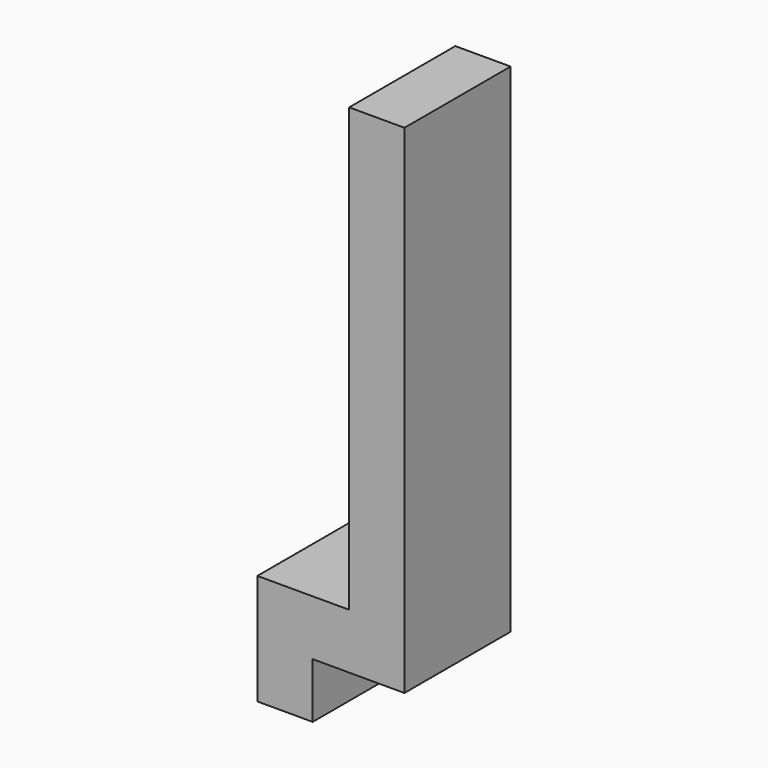
from build123d import *

# Parameters (mm, degrees)
F1_DEPTH = 12
F2_R     = 0.65
F3_DEPTH = 5
F4_R     = 2.35
F4_R_2   = 0.8
F5_DEPTH = 2


with BuildPart() as f1:
    # F0 (on Front) → F1 (new body)
    with BuildSketch(Plane.XZ):
        Polygon((-13.3, 5), (-13.3, -5), (-8.3, -5), (-8.3, 0), (0, 0), (0, 45), (-5, 45), (-5, 5), align=None)
    extrude(amount=F1_DEPTH)

    # F2 (on face) → F3 (cut)
    with BuildSketch(Plane(origin=(-13.3, 0, 0), x_dir=(0, -1, 0), z_dir=(-1, 0, 0))):
        with Locations((6, -2.7)):
            Circle(F2_R)
    extrude(amount=-F3_DEPTH, mode=Mode.SUBTRACT)

    # F4 (on face) → F5 (cut)
    with BuildSketch(Plane(origin=(-5, 0, 0), x_dir=(0, -1, 0), z_dir=(-1, 0, 0))):
        with Locations((6, 37)):
            Circle(F4_R)
        with Locations((6, 37)):
            Circle(F4_R_2, mode=Mode.SUBTRACT)
    extrude(amount=-F5_DEPTH, mode=Mode.SUBTRACT)


solid = f1.part
